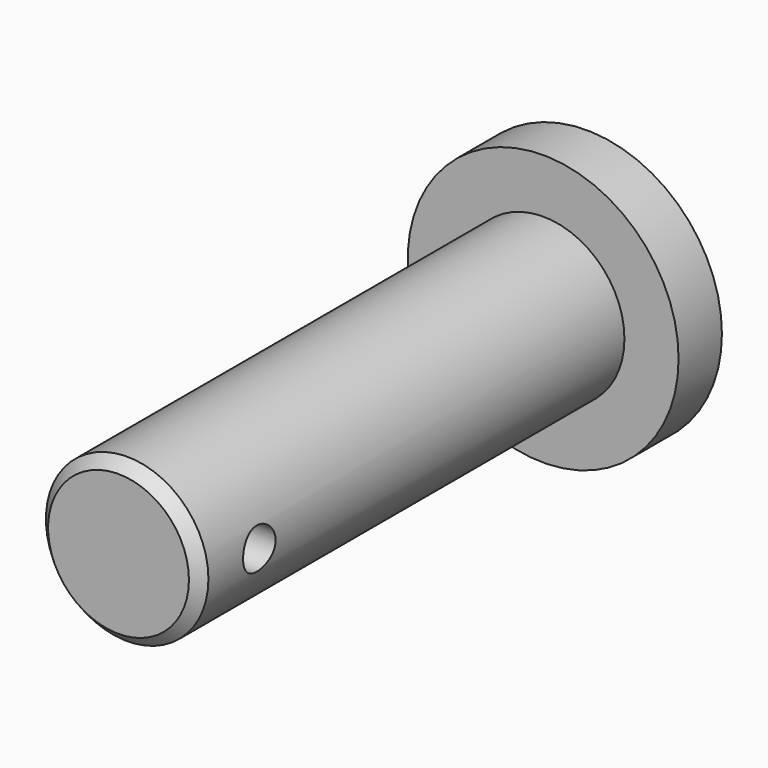
from build123d import *

# Parameters (mm, degrees)
F0_R     = 15.875
F1_DEPTH = 6.35
F2_R     = 9.525
F3_DEPTH = 62.23
F4_R     = 2.3876
F5_DEPTH = 12.7
F6_SIZE2 = 1.27
F6_SIZE  = 1.27


with BuildPart() as f1:
    # F0 (on Front) → F1 (new body)
    with BuildSketch(Plane.XZ):
        Circle(F0_R)
    extrude(amount=F1_DEPTH)

    # F2 (on face) → F3 (join)
    with BuildSketch(Plane.XZ.offset(6.35)):
        Circle(F2_R)
    extrude(amount=F3_DEPTH)

    # F4 (on Right) → F5 (cut, symmetric)
    with BuildSketch(Plane.YZ):
        with Locations((-59.8424, 0)):
            Circle(F4_R)
    extrude(amount=F5_DEPTH, both=True, mode=Mode.SUBTRACT)

    # F6
    f6_edges = [f1.edges().sort_by_distance(p)[0] for p in [
        (-9.525, -68.58, 0),
    ]]
    chamfer(f6_edges, length=F6_SIZE, length2=F6_SIZE2)


solid = f1.part
